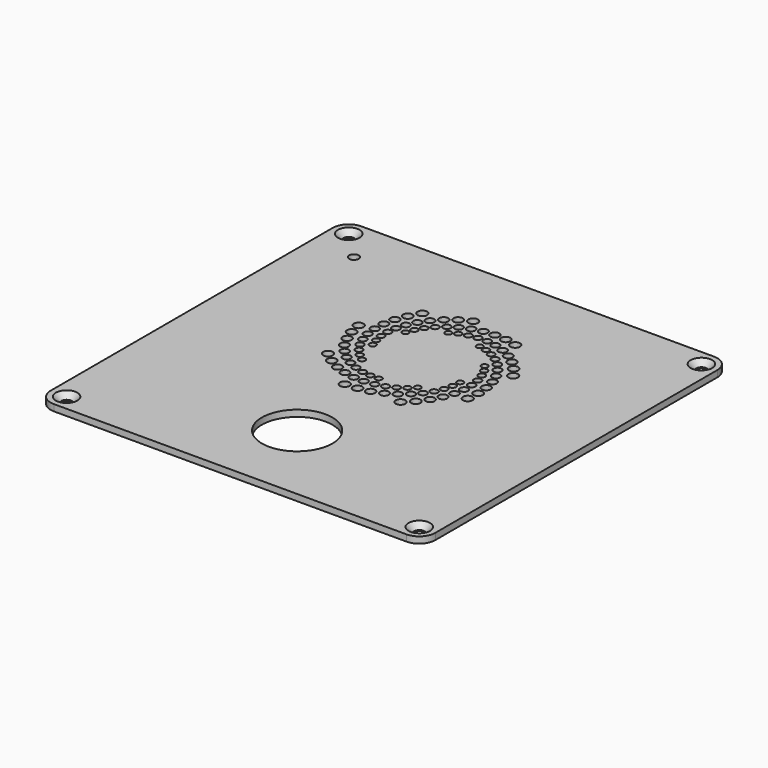
from build123d import *

# Parameters (mm, degrees)
F0_R           = 1.5
F0_R_2         = 1.4
F0_R_3         = 1.35
F0_R_4         = 1.45
F0_R_5         = 1.3
F0_R_6         = 1.05
F0_R_7         = 1.25
F0_R_8         = 1.2
F0_R_9         = 1
F0_R_10        = 11
F0_R_11        = 1.15
F0_R_12        = 1.1
F1_DEPTH       = 2
F3_D           = 3.3
F3_CSINK_D     = 6.72
F3_CSINK_ANGLE = 90


with BuildPart() as f1:
    # F0 (on Top) → F1 (new body)
    with BuildSketch(Plane.XY):
        with BuildLine():
            Line((-55, -60), (55, -60))
            ThreePointArc((55, -60), (58.5355339059, -58.5355339059), (60, -55))
            Line((60, -55), (60, 55))
            ThreePointArc((60, 55), (58.5355339059, 58.5355339059), (55, 60))
            Line((55, 60), (-55, 60))
            ThreePointArc((-55, 60), (-58.5355339059, 58.5355339059), (-60, 55))
            Line((-60, 55), (-60, -55))
            ThreePointArc((-60, -55), (-58.5355339059, -58.5355339059), (-55, -60))
        make_face()
        with Locations((-6.2195005757, -7.5245201893)):
            Circle(F0_R, mode=Mode.SUBTRACT)
        with Locations((-13.2095659082, -1.6022741634)):
            Circle(F0_R_2, mode=Mode.SUBTRACT)
        with Locations((-9.9718863075, -2.7407789908)):
            Circle(F0_R_3, mode=Mode.SUBTRACT)
        with Locations((-2.4208439444, -7.2535090453)):
            Circle(F0_R_4, mode=Mode.SUBTRACT)
        with Locations((-6.744894099, -3.34734333)):
            Circle(F0_R_5, mode=Mode.SUBTRACT)
        with Locations((-4.2086559278, -0.0616157499)):
            Circle(F0_R_6, mode=Mode.SUBTRACT)
        with Locations((-3.5667660577, -3.4381477467)):
            Circle(F0_R_7, mode=Mode.SUBTRACT)
        with Locations((-0.4794412689, -3.0295308984)):
            Circle(F0_R_8, mode=Mode.SUBTRACT)
        with Locations((-1.6394864233, -0.0045228822)):
            Circle(F0_R_9, mode=Mode.SUBTRACT)
        with Locations((0, -33.8560082018)):
            Circle(F0_R_10, mode=Mode.SUBTRACT)
        with Locations((1.0897714947, -6.5685119785)):
            Circle(F0_R_2, mode=Mode.SUBTRACT)
        with Locations((4.320428574, -5.2589490383)):
            Circle(F0_R_3, mode=Mode.SUBTRACT)
        with Locations((2.2446686472, -2.2122976675)):
            Circle(F0_R_11, mode=Mode.SUBTRACT)
        with Locations((7.1572727593, -3.5527772575)):
            Circle(F0_R_5, mode=Mode.SUBTRACT)
        with Locations((4.7417693841, -1.0318500295)):
            Circle(F0_R_12, mode=Mode.SUBTRACT)
        with Locations((10.2772820811, -6.3879620589)):
            Circle(F0_R, mode=Mode.SUBTRACT)
        with Locations((12.9488032381, -3.785707087)):
            Circle(F0_R_4, mode=Mode.SUBTRACT)
        with Locations((9.6169902081, -1.4934791557)):
            Circle(F0_R_7, mode=Mode.SUBTRACT)
        with Locations((15.0894230301, -0.8744641978)):
            Circle(F0_R_2, mode=Mode.SUBTRACT)
        with Locations((-19.4530965691, 2.4914951923)):
            Circle(F0_R, mode=Mode.SUBTRACT)
        with Locations((-16.4204941993, 0.1530332652)):
            Circle(F0_R_4, mode=Mode.SUBTRACT)
        with Locations((-17.0878687804, 6.0222702727)):
            Circle(F0_R_5, mode=Mode.SUBTRACT)
        with Locations((-19.1888803547, 8.5759251074)):
            Circle(F0_R_3, mode=Mode.SUBTRACT)
        with Locations((-16.3817511802, 11.1066447266)):
            Circle(F0_R_11, mode=Mode.SUBTRACT)
        with Locations((-20.8378577535, 11.6811562025)):
            Circle(F0_R_2, mode=Mode.SUBTRACT)
        with Locations((-17.6128627663, 13.7632745013)):
            Circle(F0_R_8, mode=Mode.SUBTRACT)
        with Locations((-12.1751217102, 2.1627622468)):
            Circle(F0_R_8, mode=Mode.SUBTRACT)
        with Locations((-9.5412278478, 0.9805144786)):
            Circle(F0_R_11, mode=Mode.SUBTRACT)
        with Locations((-14.7391617229, 3.8671595671)):
            Circle(F0_R_7, mode=Mode.SUBTRACT)
        with Locations((-13.0009319564, 6.7895073139)):
            Circle(F0_R_6, mode=Mode.SUBTRACT)
        with Locations((-11.0597781767, 5.2480040745)):
            Circle(F0_R_9, mode=Mode.SUBTRACT)
        with Locations((-6.8349194643, 0.2238475413)):
            Circle(F0_R_12, mode=Mode.SUBTRACT)
        with Locations((-14.8278962751, 8.7877511673)):
            Circle(F0_R_12, mode=Mode.SUBTRACT)
        with Locations((-13.9144141157, 13.0126103454)):
            Circle(F0_R_9, mode=Mode.SUBTRACT)
        with Locations((-22.9111540993, 18.7842817672)):
            Circle(F0_R, mode=Mode.SUBTRACT)
        with Locations((-22.1386555513, 15.0655554303)):
            Circle(F0_R_4, mode=Mode.SUBTRACT)
        with Locations((-18.4427140211, 16.7031753503)):
            Circle(F0_R_7, mode=Mode.SUBTRACT)
        with Locations((-15.2037231182, 17.8747428276)):
            Circle(F0_R_12, mode=Mode.SUBTRACT)
        with Locations((-18.7601869856, 19.8778332838)):
            Circle(F0_R_5, mode=Mode.SUBTRACT)
        with Locations((-15.2653934364, 20.5665165254)):
            Circle(F0_R_11, mode=Mode.SUBTRACT)
        with Locations((-18.6333035981, 23.230218298)):
            Circle(F0_R_3, mode=Mode.SUBTRACT)
        with Locations((-17.9479293456, 26.7000375011)):
            Circle(F0_R_2, mode=Mode.SUBTRACT)
        with Locations((-14.7137114709, 15.2963185378)):
            Circle(F0_R_6, mode=Mode.SUBTRACT)
        with Locations((-14.9147607317, 23.3061620661)):
            Circle(F0_R_8, mode=Mode.SUBTRACT)
        with Locations((-11.7448925902, 23.1180181422)):
            Circle(F0_R_9, mode=Mode.SUBTRACT)
        with Locations((-14.0882221912, 26.1341565915)):
            Circle(F0_R_7, mode=Mode.SUBTRACT)
        with Locations((-10.8314094995, 25.4017254033)):
            Circle(F0_R_6, mode=Mode.SUBTRACT)
        with Locations((-12.71951142, 28.9193587073)):
            Circle(F0_R_5, mode=Mode.SUBTRACT)
        with Locations((-9.5481708576, 27.6238368519)):
            Circle(F0_R_12, mode=Mode.SUBTRACT)
        with Locations((-7.8182857414, 29.7311963209)):
            Circle(F0_R_11, mode=Mode.SUBTRACT)
        with Locations((-3.4150964511, 29.3566630848)):
            Circle(F0_R_9, mode=Mode.SUBTRACT)
        with Locations((-46.3356375694, 46.1809411645)):
            Circle(F0_R, mode=Mode.SUBTRACT)
        with Locations((-16.6427524691, 30.0739695944)):
            Circle(F0_R_4, mode=Mode.SUBTRACT)
        with Locations((-14.7720783879, 33.4214912423)):
            Circle(F0_R, mode=Mode.SUBTRACT)
        with Locations((-10.9200630267, 31.5629942038)):
            Circle(F0_R_3, mode=Mode.SUBTRACT)
        with Locations((-8.6085241218, 34.0252527662)):
            Circle(F0_R_2, mode=Mode.SUBTRACT)
        with Locations((-5.6933987816, 31.6130080887)):
            Circle(F0_R_8, mode=Mode.SUBTRACT)
        with Locations((-1.2505264185, 30.511100746)):
            Circle(F0_R_6, mode=Mode.SUBTRACT)
        with Locations((-3.2400753279, 33.194542832)):
            Circle(F0_R_7, mode=Mode.SUBTRACT)
        with Locations((-5.8125317027, 36.1782768436)):
            Circle(F0_R_4, mode=Mode.SUBTRACT)
        with Locations((-0.3653573385, 34.4533966549)):
            Circle(F0_R_5, mode=Mode.SUBTRACT)
        with Locations((-2.5428621029, 37.9275539585)):
            Circle(F0_R, mode=Mode.SUBTRACT)
        with Locations((6.9210576894, 0.5118121321)):
            Circle(F0_R_6, mode=Mode.SUBTRACT)
        with Locations((8.7371306563, 2.1916801038)):
            Circle(F0_R_9, mode=Mode.SUBTRACT)
        with Locations((11.6190860118, 0.680224532)):
            Circle(F0_R_8, mode=Mode.SUBTRACT)
        with Locations((13.1635587732, 3.0827383439)):
            Circle(F0_R_11, mode=Mode.SUBTRACT)
        with Locations((14.2504103551, 5.5996579744)):
            Circle(F0_R_12, mode=Mode.SUBTRACT)
        with Locations((14.8796407575, 8.173780951)):
            Circle(F0_R_6, mode=Mode.SUBTRACT)
        with Locations((16.673070013, 2.1594428385)):
            Circle(F0_R_3, mode=Mode.SUBTRACT)
        with Locations((17.7397770877, 5.3136446208)):
            Circle(F0_R_5, mode=Mode.SUBTRACT)
        with Locations((21.916254058, 5.254852555)):
            Circle(F0_R, mode=Mode.SUBTRACT)
        with Locations((18.2546028937, 8.4025920064)):
            Circle(F0_R_7, mode=Mode.SUBTRACT)
        with Locations((15.1656545768, 10.7479039275)):
            Circle(F0_R_9, mode=Mode.SUBTRACT)
        with Locations((22.1859557624, 8.9767276936)):
            Circle(F0_R_4, mode=Mode.SUBTRACT)
        with Locations((18.2546028937, 11.3771333986)):
            Circle(F0_R_8, mode=Mode.SUBTRACT)
        with Locations((17.8541826154, 14.1800669648)):
            Circle(F0_R_11, mode=Mode.SUBTRACT)
        with Locations((21.8965919758, 12.5258136236)):
            Circle(F0_R_2, mode=Mode.SUBTRACT)
        with Locations((14.422019578, 21.2160022624)):
            Circle(F0_R_9, mode=Mode.SUBTRACT)
        with Locations((6.9856644678, 28.5951541432)):
            Circle(F0_R_9, mode=Mode.SUBTRACT)
        with Locations((14.1360048274, 25.6206122853)):
            Circle(F0_R_11, mode=Mode.SUBTRACT)
        with Locations((9.3881791527, 28.0231265046)):
            Circle(F0_R_6, mode=Mode.SUBTRACT)
        with Locations((11.790693372, 27.0506804504)):
            Circle(F0_R_12, mode=Mode.SUBTRACT)
        with Locations((16.9961420889, 16.8685959347)):
            Circle(F0_R_12, mode=Mode.SUBTRACT)
        with Locations((21.1318308557, 15.8720388704)):
            Circle(F0_R_3, mode=Mode.SUBTRACT)
        with Locations((15.8520868118, 19.2139064588)):
            Circle(F0_R_6, mode=Mode.SUBTRACT)
        with Locations((18.1973991985, 21.502017013)):
            Circle(F0_R_7, mode=Mode.SUBTRACT)
        with Locations((19.856278419, 18.8706917383)):
            Circle(F0_R_5, mode=Mode.SUBTRACT)
        with Locations((23.0489993538, 21.5448019721)):
            Circle(F0_R, mode=Mode.SUBTRACT)
        with Locations((16.3097089226, 23.7901257046)):
            Circle(F0_R_8, mode=Mode.SUBTRACT)
        with Locations((20.8374491031, 24.5115132698)):
            Circle(F0_R_4, mode=Mode.SUBTRACT)
        with Locations((18.3107188041, 27.003996975)):
            Circle(F0_R_2, mode=Mode.SUBTRACT)
        with Locations((15.565852269, 28.9864027568)):
            Circle(F0_R_3, mode=Mode.SUBTRACT)
        with Locations((1.2507550837, 31.3288280435)):
            Circle(F0_R_12, mode=Mode.SUBTRACT)
        with Locations((3.8963412936, 31.7617421665)):
            Circle(F0_R_11, mode=Mode.SUBTRACT)
        with Locations((6.7343335668, 31.8098431148)):
            Circle(F0_R_8, mode=Mode.SUBTRACT)
        with Locations((2.7717143367, 35.2802173861)):
            Circle(F0_R_3, mode=Mode.SUBTRACT)
        with Locations((6.1476380634, 35.5577924915)):
            Circle(F0_R_2, mode=Mode.SUBTRACT)
        with Locations((9.6685295994, 31.3769289919)):
            Circle(F0_R_7, mode=Mode.SUBTRACT)
        with Locations((12.6508265803, 30.4148969867)):
            Circle(F0_R_5, mode=Mode.SUBTRACT)
        with Locations((9.6943719382, 35.3388571807)):
            Circle(F0_R_4, mode=Mode.SUBTRACT)
        with Locations((13.2880402216, 34.5373386212)):
            Circle(F0_R, mode=Mode.SUBTRACT)
    extrude(amount=F1_DEPTH)

    # F3 (through all)
    with Locations(Plane.XY.offset(2)):
        with Locations((-55, 55), (55, 55), (55, -55), (-55, -55)):
            CounterSinkHole(F3_D / 2, F3_CSINK_D / 2, counter_sink_angle=F3_CSINK_ANGLE)


solid = f1.part
